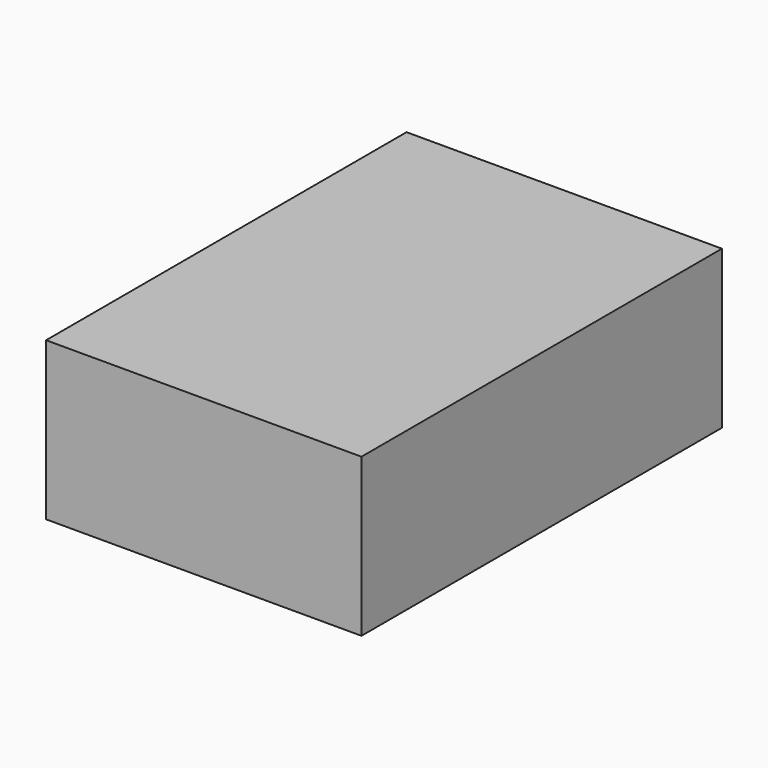
from build123d import *

# Parameters (mm, degrees)
F0_W     = 88.9
F0_H     = 127
F1_DEPTH = 44.45
F4_DEPTH = 42.926


with BuildPart() as f1:
    # F0 (on Top) → F1 (new body)
    with BuildSketch(Plane.XY):
        with Locations((44.45, -25.887133)):
            Rectangle(F0_W, F0_H)
    extrude(amount=F1_DEPTH)

    # F2 (on face) + F3 (on face) → F4 (join)
    with BuildSketch(Plane.XY.offset(44.45)):
        Polygon((0, 37.612867), (0, -89.387133), (25.4, -89.387133), (88.9, -89.387133), (88.9, 37.612867), align=None)
    with BuildSketch(Plane.XY.offset(44.45)):
        Polygon((25.378991, 11.89748), (25.378991, -89.387133), (25.4, -89.387133), (63.644692, -89.387133), (88.9, -89.387133), (88.9, 37.612867), (0, 37.612867), (0, 37.46105), align=None)
    extrude(amount=-F4_DEPTH)


solid = f1.part
